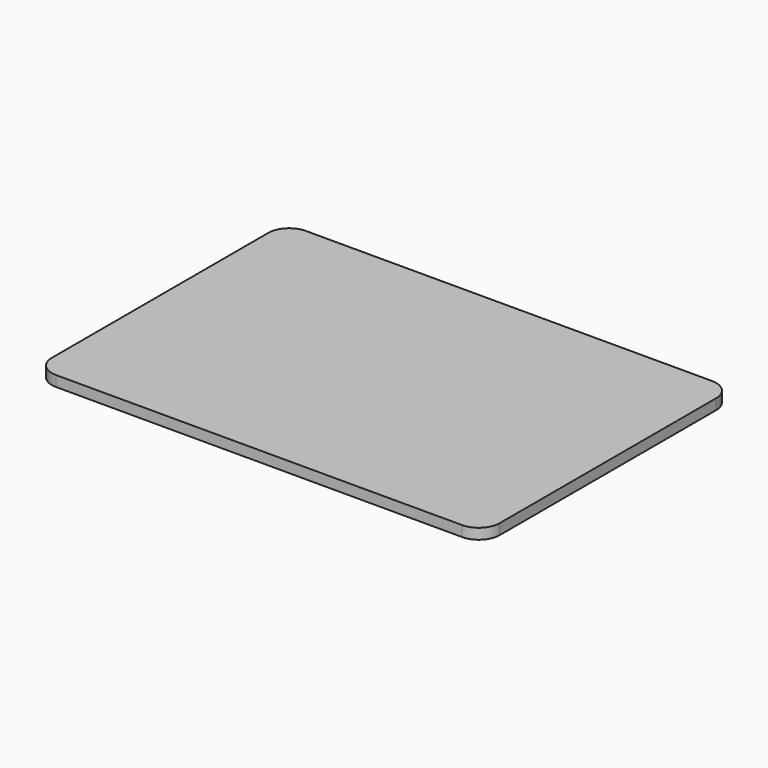
from build123d import *

# Parameters (mm, degrees)
RECTANGLE_W   = 322.7
RECTANGLE_H   = 225
EXTRUDE_DEPTH = 7.6
FILLET_R      = 15
FILLET001_R   = 15
FILLET002_R   = 15
FILLET003_R   = 15


with BuildPart() as part:
    # Rectangle → Extrude (new body)
    with BuildSketch(Plane.XY):
        with Locations((161.35, 112.5)):
            Rectangle(RECTANGLE_W, RECTANGLE_H)
    extrude(amount=EXTRUDE_DEPTH)

    # Fillet
    fillet_edges = [part.edges().sort_by_distance(p)[0] for p in [
        (322.7, 0, 3.8),
    ]]
    fillet(fillet_edges, radius=FILLET_R)

    # Fillet001
    fillet001_edges = [part.edges().sort_by_distance(p)[0] for p in [
        (0, 0, 3.8),
    ]]
    fillet(fillet001_edges, radius=FILLET001_R)

    # Fillet002
    fillet002_edges = [part.edges().sort_by_distance(p)[0] for p in [
        (322.7, 225, 3.8),
    ]]
    fillet(fillet002_edges, radius=FILLET002_R)

    # Fillet003
    fillet003_edges = [part.edges().sort_by_distance(p)[0] for p in [
        (0, 225, 3.8),
    ]]
    fillet(fillet003_edges, radius=FILLET003_R)


solid = part.part
